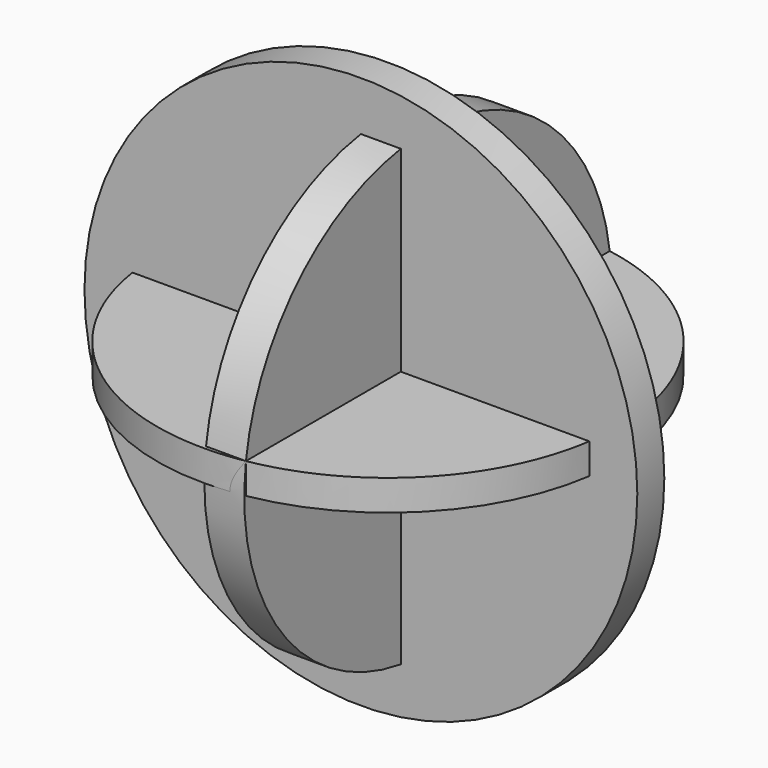
from build123d import *

# Parameters (mm, degrees)
F0_R     = 19.10255
F1_DEPTH = 2.54
F2_R     = 22.874654
F3_DEPTH = 2.794
F4_R     = 18.985584
F5_DEPTH = 3.302


with BuildPart() as f1:
    # F0 (on Top) → F1 (new body)
    with BuildSketch(Plane.XY):
        Circle(F0_R)
    extrude(amount=F1_DEPTH)

    # F2 (on Front) → F3 (join)
    with BuildSketch(Plane.XZ):
        Circle(F2_R)
    extrude(amount=F3_DEPTH)

    # F4 (on Right) → F5 (join)
    with BuildSketch(Plane.YZ):
        Circle(F4_R)
    extrude(amount=F5_DEPTH)


solid = f1.part
